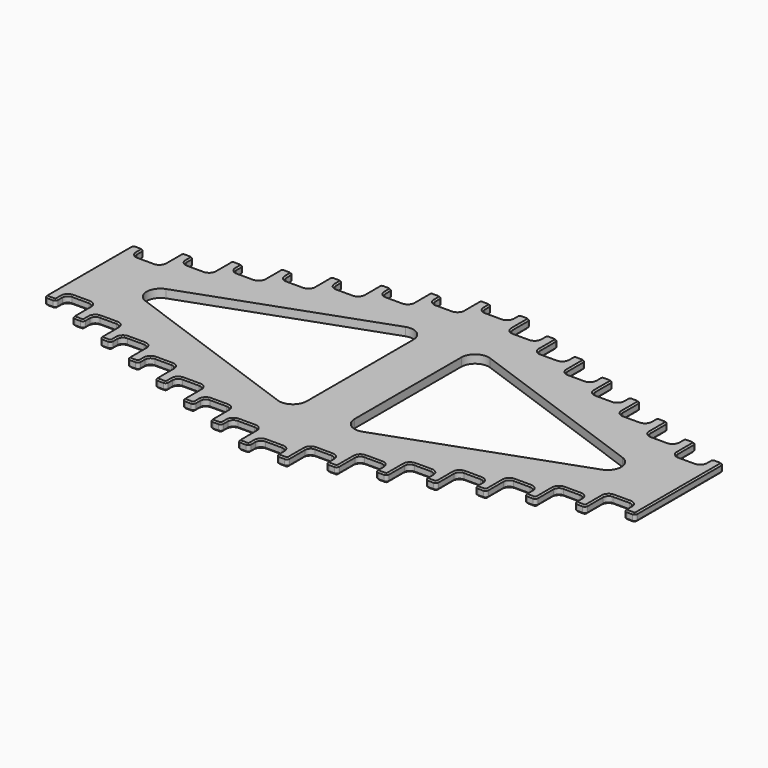
from build123d import *

# Parameters (mm, degrees)
F1_DEPTH = 3
F2_R     = 2
F3_R     = 1
F4_R     = 5
F5_SIZE  = 0.5


with BuildPart() as f1:
    # F0 (on Top) → F1 (new body)
    with BuildSketch(Plane.XY):
        Polygon((5, 50), (0, 50), (-5, 50), (-5, 55), (-9, 55), (-9, 45), (-19, 45), (-19, 50), (-23, 50), (-23, 40), (-33, 40), (-33, 45), (-37, 45), (-37, 35), (-47, 35), (-47, 40), (-51, 40), (-51, 30), (-61, 30), (-61, 35), (-65, 35), (-65, 25), (-75, 25), (-75, 30), (-79, 30), (-79, 20), (-89, 20), (-89, 25), (-93, 25), (-93, 15), (-103, 15), (-103, 20), (-107, 20), (-107, 0), (-107, -20), (-103, -20), (-103, -15), (-93, -15), (-93, -25), (-89, -25), (-89, -20), (-79, -20), (-79, -30), (-75, -30), (-75, -25), (-65, -25), (-65, -35), (-61, -35), (-61, -30), (-51, -30), (-51, -40), (-47, -40), (-47, -35), (-37, -35), (-37, -45), (-33, -45), (-33, -40), (-23, -40), (-23, -50), (-19, -50), (-19, -45), (-9, -45), (-9, -55), (-5, -55), (-5, -50), (0, -50), (5, -50), (5, -55), (9, -55), (9, -45), (19, -45), (19, -50), (23, -50), (23, -40), (33, -40), (33, -45), (37, -45), (37, -35), (47, -35), (47, -40), (51, -40), (51, -30), (61, -30), (61, -35), (65, -35), (65, -25), (75, -25), (75, -30), (79, -30), (79, -20), (89, -20), (89, -25), (93, -25), (93, -15), (103, -15), (103, -20), (107, -20), (107, 0), (107, 20), (103, 20), (103, 15), (93, 15), (93, 25), (89, 25), (89, 20), (79, 20), (79, 30), (75, 30), (75, 25), (65, 25), (65, 35), (61, 35), (61, 30), (51, 30), (51, 40), (47, 40), (47, 35), (37, 35), (37, 45), (33, 45), (33, 40), (23, 40), (23, 50), (19, 50), (19, 45), (9, 45), (9, 55), (5, 55), align=None)
        Polygon((-8.682133, -31.261525), (-95.822759, 0), (-8.682133, 31.261525), (0, 34.376223), (8.682133, 31.261525), (95.822759, 0), (8.682133, -31.261525), (0, -34.376223), align=None, mode=Mode.SUBTRACT)
        Polygon((0, 34.376223), (-8.682133, 31.261525), (-8.682133, -31.261525), (0, -34.376223), (8.682133, -31.261525), (8.682133, 31.261525), align=None)
    extrude(amount=F1_DEPTH)

    # F2
    f2_edges = [f1.edges().sort_by_distance(p)[0] for p in [
        (-103, 15, 1.5),
        (-89, 20, 1.5),
        (-75, 25, 1.5),
        (-61, 30, 1.5),
        (-47, 35, 1.5),
        (-33, 40, 1.5),
        (-19, 45, 1.5),
        (-5, 50, 1.5),
        (-93, 15, 1.5),
        (-79, 20, 1.5),
        (-65, 25, 1.5),
        (-51, 30, 1.5),
        (-37, 35, 1.5),
        (-23, 40, 1.5),
        (-9, 45, 1.5),
        (5, 50, 1.5),
        (19, 45, 1.5),
        (33, 40, 1.5),
        (47, 35, 1.5),
        (61, 30, 1.5),
        (75, 25, 1.5),
        (89, 20, 1.5),
        (103, 15, 1.5),
        (9, 45, 1.5),
        (23, 40, 1.5),
        (37, 35, 1.5),
        (51, 30, 1.5),
        (65, 25, 1.5),
        (79, 20, 1.5),
        (93, 15, 1.5),
        (93, -15, 1.5),
        (79, -20, 1.5),
        (65, -25, 1.5),
        (51, -30, 1.5),
        (37, -35, 1.5),
        (23, -40, 1.5),
        (9, -45, 1.5),
        (-5, -50, 1.5),
        (-19, -45, 1.5),
        (-33, -40, 1.5),
        (-47, -35, 1.5),
        (-61, -30, 1.5),
        (-75, -25, 1.5),
        (-89, -20, 1.5),
        (-103, -15, 1.5),
        (-93, -15, 1.5),
        (-79, -20, 1.5),
        (-65, -25, 1.5),
        (-51, -30, 1.5),
        (-37, -35, 1.5),
        (-23, -40, 1.5),
        (-9, -45, 1.5),
        (5, -50, 1.5),
        (19, -45, 1.5),
        (33, -40, 1.5),
        (47, -35, 1.5),
        (61, -30, 1.5),
        (75, -25, 1.5),
        (89, -20, 1.5),
        (103, -15, 1.5),
    ]]
    fillet(f2_edges, radius=F2_R)

    # F3
    f3_edges = [f1.edges().sort_by_distance(p)[0] for p in [
        (-107, 20, 1.5),
        (-93, 25, 1.5),
        (-79, 30, 1.5),
        (-65, 35, 1.5),
        (-51, 40, 1.5),
        (-37, 45, 1.5),
        (-23, 50, 1.5),
        (-9, 55, 1.5),
        (5, 55, 1.5),
        (19, 50, 1.5),
        (33, 45, 1.5),
        (47, 40, 1.5),
        (61, 35, 1.5),
        (75, 30, 1.5),
        (89, 25, 1.5),
        (103, 20, 1.5),
        (107, 20, 1.5),
        (93, 25, 1.5),
        (79, 30, 1.5),
        (65, 35, 1.5),
        (51, 40, 1.5),
        (37, 45, 1.5),
        (23, 50, 1.5),
        (9, 55, 1.5),
        (-5, 55, 1.5),
        (-19, 50, 1.5),
        (-33, 45, 1.5),
        (-47, 40, 1.5),
        (-61, 35, 1.5),
        (-75, 30, 1.5),
        (-89, 25, 1.5),
        (-103, 20, 1.5),
        (-107, -20, 1.5),
        (-93, -25, 1.5),
        (-89, -25, 1.5),
        (-79, -30, 1.5),
        (-75, -30, 1.5),
        (-65, -35, 1.5),
        (-61, -35, 1.5),
        (-51, -40, 1.5),
        (-47, -40, 1.5),
        (-37, -45, 1.5),
        (-33, -45, 1.5),
        (-23, -50, 1.5),
        (-19, -50, 1.5),
        (-9, -55, 1.5),
        (-5, -55, 1.5),
        (5, -55, 1.5),
        (9, -55, 1.5),
        (19, -50, 1.5),
        (23, -50, 1.5),
        (33, -45, 1.5),
        (37, -45, 1.5),
        (47, -40, 1.5),
        (51, -40, 1.5),
        (61, -35, 1.5),
        (65, -35, 1.5),
        (75, -30, 1.5),
        (79, -30, 1.5),
        (89, -25, 1.5),
        (93, -25, 1.5),
        (103, -20, 1.5),
        (107, -20, 1.5),
        (-103, -20, 1.5),
    ]]
    fillet(f3_edges, radius=F3_R)

    # F4
    f4_edges = [f1.edges().sort_by_distance(p)[0] for p in [
        (-95.822759, 0, 1.5),
        (95.822759, 0, 1.5),
        (8.682133, 31.261525, 1.5),
        (-8.682133, 31.261525, 1.5),
        (-8.682133, -31.261525, 1.5),
        (8.682133, -31.261525, 1.5),
    ]]
    fillet(f4_edges, radius=F4_R)

    # F5
    f5_edges = [f1.edges().sort_by_distance(p)[0] for p in [
        (93, 20.5, 3),
        (93, 20.5, 0),
    ]]
    chamfer(f5_edges, length=F5_SIZE)


solid = f1.part
